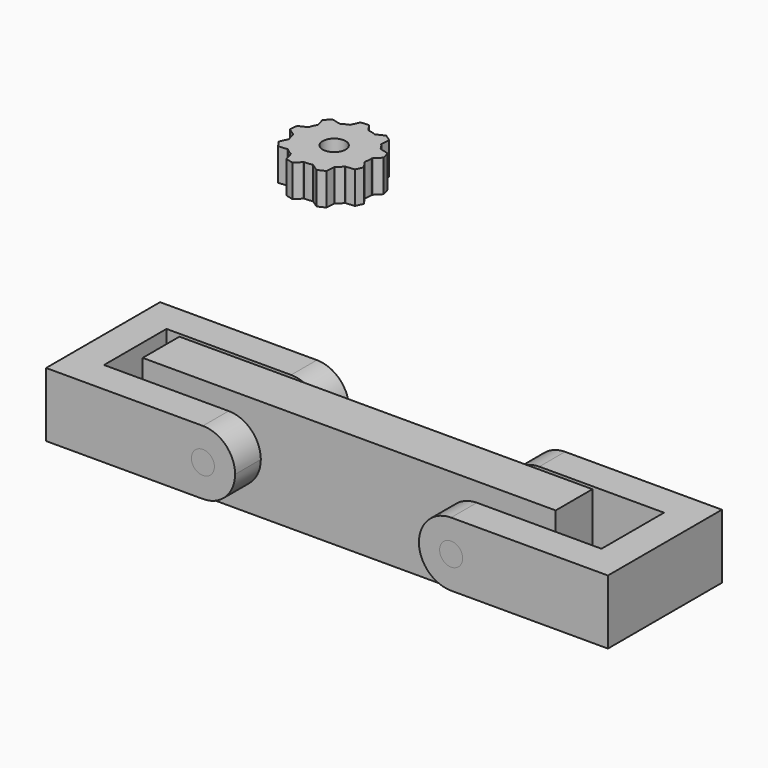
from build123d import *

# Parameters (mm, degrees)
F1_DEPTH  = 7
F2_R      = 2.5
F3_DEPTH  = 25
F4_W      = 89.8504182696
F4_H      = 22.1967101097
F5_DEPTH  = 10
F7_DEPTH  = 7
F8_R      = 2.5
F9_DEPTH  = 7
F10_R     = 2.5
F11_DEPTH = 7
F12_W     = 24
F12_H     = 14
F13_DEPTH = 7
F14_W     = 34.1175030857
F14_H     = 14
F15_DEPTH = 7
F16_W     = 24
F16_H     = 14
F17_DEPTH = 7
F18_W     = 34.1175030857
F18_H     = 14
F19_DEPTH = 7


with BuildPart() as f1:
    # F0 (on Top) → F1 (new body)
    with BuildSketch(Plane.XY):
        with BuildLine():
            ThreePointArc((-2.1490524557, -1.5370825146), (-2.0373503043, -0.7721462444), (-2, 0))
            ThreePointArc((-2, 0), (-2.0012895065, 0.1436330113), (-2.0051576105, 0.2872197187))
            ThreePointArc((-2.0051576105, 0.2872197187), (-2.2905847902, 2.136566667), (-2.997807665, 3.8690182869))
            ThreePointArc((-2.997807665, 3.8690182869), (-3.4862682544, 4.6444912258), (-4.0602166903, 5.3590086988))
            ThreePointArc((-4.0602166903, 5.3590086988), (-5.4676038996, 6.5922215974), (-7.1229664886, 7.4647624325))
            ThreePointArc((-7.1229664886, 7.4647624325), (-7.9956134055, 7.7448327535), (-8.8945663941, 7.92325795))
            ThreePointArc((-8.8945663941, 7.92325795), (-10.7653815164, 7.963302778), (-12.5943212668, 7.5676612744))
            ThreePointArc((-12.5943212668, 7.5676612744), (-13.4428333205, 7.2212809617), (-14.2461607676, 6.7801267492))
            ThreePointArc((-14.2461607676, 6.7801267492), (-15.7050286154, 5.6082660866), (-16.8517642916, 4.1295673009))
            ThreePointArc((-16.8517642916, 4.1295673009), (-17.279113262, 3.3188115522), (-17.6109293271, 2.4644988897))
            ThreePointArc((-17.6109293271, 2.4644988897), (-17.9752294209, 0.6290593643), (-17.9031906555, -1.2407971078))
            ThreePointArc((-17.9031906555, -1.2407971078), (-17.7094152098, -2.136566667), (-17.4144594684, -3.0042953901))
            ThreePointArc((-17.4144594684, -3.0042953901), (-16.5137317456, -4.6444912258), (-15.2566262775, -6.0305787598))
            ThreePointArc((-15.2566262775, -6.0305787598), (-14.5323961004, -6.5922215974), (-13.7486816219, -7.0673464679))
            ThreePointArc((-13.7486816219, -7.0673464679), (-12.0043865945, -7.7448327535), (-10.1504280434, -7.9985855877))
            ThreePointArc((-10.1504280434, -7.9985855877), (-9.2346184836, -7.963302778), (-8.3288539826, -7.8235075886))
            ThreePointArc((-8.3288539826, -7.8235075886), (-6.5571666795, -7.2212809617), (-4.9738428559, -6.2239653247))
            ThreePointArc((-4.9738428559, -6.2239653247), (-4.2949713846, -5.6082660866), (-3.6909741375, -4.9189625599))
            ThreePointArc((-3.6909741375, -4.9189625599), (-2.720886738, -3.3188115522), (-2.1490524557, -1.5370825146))
        make_face()
        with BuildLine():
            ThreePointArc((-2.997807665, 3.8690182869), (-2.2905847902, 2.136566667), (-2.0051576105, 0.2872197187))
            Line((-2.0051576105, 0.2872197187), (-1.8280045375, 0.4674293119))
            Line((-1.8280045375, 0.4674293119), (-0.613779312, 1.7026042395))
            Line((-0.613779312, 1.7026042395), (-1.0763595646, 3.3717415945))
            Line((-1.0763595646, 3.3717415945), (-2.7531650428, 3.805704022))
            Line((-2.7531650428, 3.805704022), (-2.997807665, 3.8690182869))
        make_face()
        with BuildLine():
            Line((-2.0023429594, -1.7428373018), (-2.1490524557, -1.5370825146))
            ThreePointArc((-2.1490524557, -1.5370825146), (-2.720886738, -3.3188115522), (-3.6909741375, -4.9189625599))
            Line((-3.6909741375, -4.9189625599), (-3.4394305167, -4.8947858027))
            Line((-3.4394305167, -4.8947858027), (-1.7153248907, -4.7290758435))
            Line((-1.7153248907, -4.7290758435), (-0.9967811121, -3.153101593))
            Line((-0.9967811121, -3.153101593), (-2.0023429594, -1.7428373018))
        make_face()
        with BuildLine():
            ThreePointArc((-7.1229664886, 7.4647624325), (-5.4676038996, 6.5922215974), (-4.0602166903, 5.3590086988))
            Line((-4.0602166903, 5.3590086988), (-4.0403460569, 5.6109290566))
            Line((-4.0403460569, 5.6109290566), (-3.9041507094, 7.3376168765))
            Line((-3.9041507094, 7.3376168765), (-5.3314085521, 8.3189094173))
            Line((-5.3314085521, 8.3189094173), (-6.8948617423, 7.5735141381))
            Line((-6.8948617423, 7.5735141381), (-7.1229664886, 7.4647624325))
        make_face()
        with BuildLine():
            Line((-4.9937134893, -6.4758856825), (-4.9738428559, -6.2239653247))
            ThreePointArc((-4.9738428559, -6.2239653247), (-6.5571666795, -7.2212809617), (-8.3288539826, -7.8235075886))
            Line((-8.3288539826, -7.8235075886), (-8.1206198697, -7.9666762408))
            Line((-8.1206198697, -7.9666762408), (-6.693362027, -8.9479687815))
            Line((-6.693362027, -8.9479687815), (-5.1299088368, -8.2025735024))
            Line((-5.1299088368, -8.2025735024), (-4.9937134893, -6.4758856825))
        make_face()
        with BuildLine():
            ThreePointArc((-12.5943212668, 7.5676612744), (-10.7653815164, 7.963302778), (-8.8945663941, 7.92325795))
            Line((-8.8945663941, 7.92325795), (-9.0412758904, 8.1290127372))
            Line((-9.0412758904, 8.1290127372), (-10.0468377377, 9.5392770285))
            Line((-10.0468377377, 9.5392770285), (-11.7709433637, 9.3735670693))
            Line((-11.7709433637, 9.3735670693), (-12.4894871423, 7.7975928188))
            Line((-12.4894871423, 7.7975928188), (-12.5943212668, 7.5676612744))
        make_face()
        with BuildLine():
            Line((-10.3275811163, -8.178795181), (-10.1504280434, -7.9985855877))
            ThreePointArc((-10.1504280434, -7.9985855877), (-12.0043865945, -7.7448327535), (-13.7486816219, -7.0673464679))
            Line((-13.7486816219, -7.0673464679), (-13.6811920726, -7.3108703261))
            Line((-13.6811920726, -7.3108703261), (-13.21861182, -8.9800076811))
            Line((-13.21861182, -8.9800076811), (-11.5418063418, -9.4139701085))
            Line((-11.5418063418, -9.4139701085), (-10.3275811163, -8.178795181))
        make_face()
        with BuildLine():
            ThreePointArc((-16.8517642916, 4.1295673009), (-15.7050286154, 5.6082660866), (-14.2461607676, 6.7801267492))
            Line((-14.2461607676, 6.7801267492), (-14.4908033898, 6.8434410141))
            Line((-14.4908033898, 6.8434410141), (-16.167608868, 7.2774034416))
            Line((-16.167608868, 7.2774034416), (-17.3818340935, 6.042228514))
            Line((-17.3818340935, 6.042228514), (-16.9192538409, 4.373091159))
            Line((-16.9192538409, 4.373091159), (-16.8517642916, 4.1295673009))
        make_face()
        with BuildLine():
            Line((-15.5081698983, -6.0547555171), (-15.2566262775, -6.0305787598))
            ThreePointArc((-15.2566262775, -6.0305787598), (-16.5137317456, -4.6444912258), (-17.4144594684, -3.0042953901))
            Line((-17.4144594684, -3.0042953901), (-17.5192935929, -3.2342269345))
            Line((-17.5192935929, -3.2342269345), (-18.2378373715, -4.810201185))
            Line((-18.2378373715, -4.810201185), (-17.2322755243, -6.2204654763))
            Line((-17.2322755243, -6.2204654763), (-15.5081698983, -6.0547555171))
        make_face()
        with BuildLine():
            ThreePointArc((-17.9031906555, -1.2407971078), (-17.9752294209, 0.6290593643), (-17.6109293271, 2.4644988897))
            Line((-17.6109293271, 2.4644988897), (-17.8390340734, 2.3557471842))
            Line((-17.8390340734, 2.3557471842), (-19.4024872636, 1.610351905))
            Line((-19.4024872636, 1.610351905), (-19.5386826111, -0.1163359149))
            Line((-19.5386826111, -0.1163359149), (-18.1114247684, -1.0976284556))
            Line((-18.1114247684, -1.0976284556), (-17.9031906555, -1.2407971078))
        make_face()
    extrude(amount=F1_DEPTH)

    # F2 (on face) → F3 (cut)
    with BuildSketch(Plane.XY.offset(7)):
        with Locations((-10, 0)):
            Circle(F2_R)
    extrude(amount=-F3_DEPTH, mode=Mode.SUBTRACT)


with BuildPart() as f5:
    # F4 (on Front) → F5 (new body)
    with BuildSketch(Plane.XZ):
        with Locations((1.256480813, -51.6901165247)):
            Rectangle(F4_W, F4_H)
    extrude(amount=F5_DEPTH)

    # F6 (on face) → F7 (join)
    with BuildSketch(Plane(origin=(0, 0, 0), x_dir=(-1, 0, 0), z_dir=(0, 1, 0))):
        with BuildLine():
            Line((-31.5369670838, -51.6901165247), (-26.5369670838, -51.6901165247))
            ThreePointArc((-26.5369670838, -51.6901165247), (-29.0369670838, -49.1901165247), (-31.5369670838, -51.6901165247))
        make_face()
        with BuildLine():
            ThreePointArc((-31.5369670838, -51.6901165247), (-29.0369670838, -54.1901165247), (-26.5369670838, -51.6901165247))
            Line((-26.5369670838, -51.6901165247), (-31.5369670838, -51.6901165247))
        make_face()
        with BuildLine():
            ThreePointArc((-8.5369670838, -51.6901165247), (-11.0369670838, -49.1901165247), (-13.5369670838, -51.6901165247))
            Line((-13.5369670838, -51.6901165247), (-8.5369670838, -51.6901165247))
        make_face()
        with BuildLine():
            Line((-8.5369670838, -51.6901165247), (-13.5369670838, -51.6901165247))
            ThreePointArc((-13.5369670838, -51.6901165247), (-11.0369670838, -54.1901165247), (-8.5369670838, -51.6901165247))
        make_face()
        with BuildLine():
            ThreePointArc((9.4630329162, -51.6901165247), (6.9630329162, -49.1901165247), (4.4630329162, -51.6901165247))
            Line((4.4630329162, -51.6901165247), (9.4630329162, -51.6901165247))
        make_face()
        with BuildLine():
            Line((9.4630329162, -51.6901165247), (4.4630329162, -51.6901165247))
            ThreePointArc((4.4630329162, -51.6901165247), (6.9630329162, -54.1901165247), (9.4630329162, -51.6901165247))
        make_face()
        with BuildLine():
            ThreePointArc((27.4630329162, -51.6901165247), (24.9630329162, -49.1901165247), (22.4630329162, -51.6901165247))
            Line((22.4630329162, -51.6901165247), (27.4630329162, -51.6901165247))
        make_face()
        with BuildLine():
            Line((27.4630329162, -51.6901165247), (22.4630329162, -51.6901165247))
            ThreePointArc((22.4630329162, -51.6901165247), (24.9630329162, -54.1901165247), (27.4630329162, -51.6901165247))
        make_face()
    extrude(amount=F7_DEPTH)

    # F8 (on face) → F9 (join)
    with BuildSketch(Plane.XZ.offset(10)):
        with Locations((-24.9630329162, -51.6901165247)):
            Circle(F8_R)
        with Locations((29.0369670838, -51.6901165247)):
            Circle(F8_R)
    extrude(amount=F9_DEPTH)


with BuildPart() as f11:
    # F10 (on face) → F11 (new body)
    with BuildSketch(Plane.XZ.offset(17)):
        with BuildLine():
            ThreePointArc((-24.9630329162, -58.6901165247), (-20.0132854479, -56.639863993), (-17.9630329162, -51.6901165247))
            ThreePointArc((-17.9630329162, -51.6901165247), (-20.0132854479, -46.7403690564), (-24.9630329162, -44.6901165247))
            ThreePointArc((-24.9630329162, -44.6901165247), (-31.9630329162, -51.6901165247), (-24.9630329162, -58.6901165247))
        make_face()
        with Locations((-24.9630329162, -51.6901165247)):
            Circle(F10_R, mode=Mode.SUBTRACT)
        with BuildLine():
            ThreePointArc((-24.9630329162, -58.6901165247), (-31.9630329162, -51.6901165247), (-24.9630329162, -44.6901165247))
            Line((-24.9630329162, -44.6901165247), (-52.0805360019, -44.6901165247))
            Line((-52.0805360019, -44.6901165247), (-52.0805360019, -58.6901165247))
            Line((-52.0805360019, -58.6901165247), (-24.9630329162, -58.6901165247))
        make_face()
    extrude(amount=-F11_DEPTH)

    # F12 (on face) → F13 (join)
    with BuildSketch(Plane(origin=(-52.0805360019, 0, 0), x_dir=(0, -1, 0), z_dir=(-1, 0, 0))):
        with Locations((5, -51.6901165247)):
            Rectangle(F12_W, F12_H)
    extrude(amount=F13_DEPTH)

    # F14 (on face) → F15 (join)
    with BuildSketch(Plane(origin=(0, 7, 0), x_dir=(-1, 0, 0), z_dir=(0, 1, 0))):
        with Locations((42.0217844591, -51.6901165247)):
            Rectangle(F14_W, F14_H)
        with BuildLine():
            ThreePointArc((24.9630329162, -44.6901165247), (17.9630329162, -51.6901165247), (24.9630329162, -58.6901165247))
            Line((24.9630329162, -58.6901165247), (24.9630329162, -44.6901165247))
        make_face()
    extrude(amount=F15_DEPTH)


with BuildPart() as f11b:
    # F10 (on face) → F11, piece 2 (new body)
    with BuildSketch(Plane.XZ.offset(17)):
        with BuildLine():
            ThreePointArc((29.0369670838, -58.6901165247), (33.9867145521, -56.639863993), (36.0369670838, -51.6901165247))
            ThreePointArc((36.0369670838, -51.6901165247), (33.9867145521, -46.7403690564), (29.0369670838, -44.6901165247))
            ThreePointArc((29.0369670838, -44.6901165247), (22.0369670838, -51.6901165247), (29.0369670838, -58.6901165247))
        make_face()
        with Locations((29.0369670838, -51.6901165247)):
            Circle(F10_R, mode=Mode.SUBTRACT)
        with BuildLine():
            ThreePointArc((29.0369670838, -44.6901165247), (33.9867145521, -46.7403690564), (36.0369670838, -51.6901165247))
            ThreePointArc((36.0369670838, -51.6901165247), (33.9867145521, -56.639863993), (29.0369670838, -58.6901165247))
            Line((29.0369670838, -58.6901165247), (56.1544701695, -58.6901165247))
            Line((56.1544701695, -58.6901165247), (56.1544701695, -44.6901165247))
            Line((56.1544701695, -44.6901165247), (29.0369670838, -44.6901165247))
        make_face()
    extrude(amount=-F11_DEPTH)

    # F16 (on face) → F17 (join)
    with BuildSketch(Plane.YZ.offset(56.1544701695)):
        with Locations((-5, -51.6901165247)):
            Rectangle(F16_W, F16_H)
    extrude(amount=F17_DEPTH)

    # F18 (on face) → F19 (join)
    with BuildSketch(Plane(origin=(0, 7, 0), x_dir=(-1, 0, 0), z_dir=(0, 1, 0))):
        with Locations((-46.0957186267, -51.6901165247)):
            Rectangle(F18_W, F18_H)
        with BuildLine():
            Line((-29.0369670838, -44.6901165247), (-29.0369670838, -58.6901165247))
            ThreePointArc((-29.0369670838, -58.6901165247), (-22.0369670838, -51.6901165247), (-29.0369670838, -44.6901165247))
        make_face()
    extrude(amount=F19_DEPTH)


solid = Compound([f1.part, f5.part, f11.part, f11b.part])
